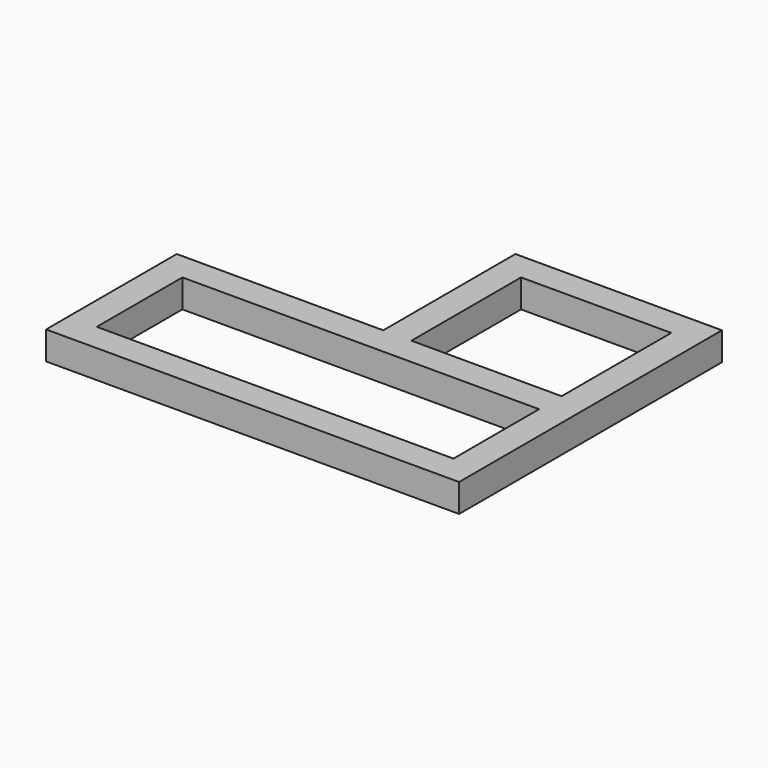
from build123d import *

# Parameters (mm, degrees)
F0_W     = 380
F0_H     = 30
F0_W_2   = 160
F1_DEPTH = 30


with BuildPart() as f1:
    # F0 (on Top) → F1 (new body)
    with BuildSketch(Plane.XY):
        Polygon((-40.044125, 0), (-40.044125, -30), (-10.044125, -30), (-10.044125, 320), (-40.044125, 320), (-40.044125, 290), (-40.044125, 144), (-40.044125, 114), align=None)
        with Locations((-230.044125, -15)):
            Rectangle(F0_W, F0_H)
        Polygon((-450.044125, -30), (-420.044125, -30), (-420.044125, 0), (-420.044125, 114), (-420.044125, 144), (-450.044125, 144), align=None)
        Polygon((-420.044125, 114), (-40.044125, 114), (-40.044125, 144), (-200.044125, 144), (-230.044125, 144), (-420.044125, 144), align=None)
        with Locations((-120.044125, 305)):
            Rectangle(F0_W_2, F0_H)
        Polygon((-200.044125, 290), (-200.044125, 320), (-230.044125, 320), (-230.044125, 144), (-200.044125, 144), align=None)
    extrude(amount=F1_DEPTH)


solid = f1.part
